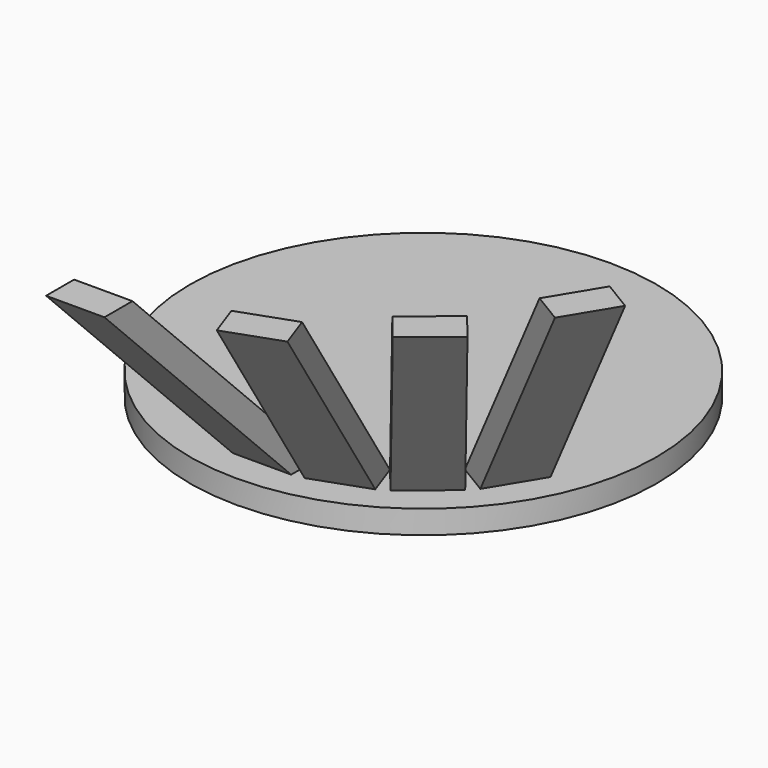
from build123d import *

# Parameters (mm, degrees)
F3_DEPTH  = 2.5
F4_R      = 20
F5_DEPTH  = 2
F6_DEPTH  = 2.5
F9_DEPTH  = 2.5
F12_DEPTH = 2.5


with BuildPart() as f3:
    # F0 (on Right) → F3 (new body, symmetric)
    with BuildSketch(Plane.YZ):
        Polygon((-3, 0), (0, 0), (-20, 20), (-23, 20), align=None)
    extrude(amount=F3_DEPTH, both=True)

    # F4 (on Top) → F5 (join)
    with BuildSketch(Plane.XY):
        with Locations((0, 14.28)):
            Circle(F4_R)
    extrude(amount=-F5_DEPTH)

    # F2 (on line) → F6 (join, symmetric)
    with BuildSketch(Plane(origin=(4.5822124443, 1.6316524569, 0), x_dir=(0.3354515698, -0.9420574528, 0), z_dir=(-0.9420574528, -0.3354515698, 0))):
        Polygon((18.8401669346, 20), (0.8401669346, 0), (3.8401669346, 0), (21.8401669346, 20), align=None)
    extrude(amount=F6_DEPTH, both=True)

    # F8 (on line) → F9 (join, symmetric)
    with BuildSketch(Plane(origin=(7.1019205596, 5.7921850717, 0), x_dir=(0.6320293027, -0.7749444887, 0), z_dir=(-0.7749444887, -0.6320293027, 0))):
        Polygon((19.4633049138, 20), (3.2633049138, 0), (6.2633049138, 0), (22.4633049138, 20), align=None)
    extrude(amount=F9_DEPTH, both=True)

    # F11 (on line) → F12 (join, symmetric)
    with BuildSketch(Plane(origin=(6.4249759494, 10.6088962546, 0), x_dir=(0.8553642602, -0.5180270094, 0), z_dir=(-0.5180270094, -0.8553642602, 0))):
        Polygon((21.4886083641, 20), (6.9886083641, 0), (9.9886083641, 0), (24.4886083641, 20), align=None)
    extrude(amount=F12_DEPTH, both=True)


solid = f3.part
